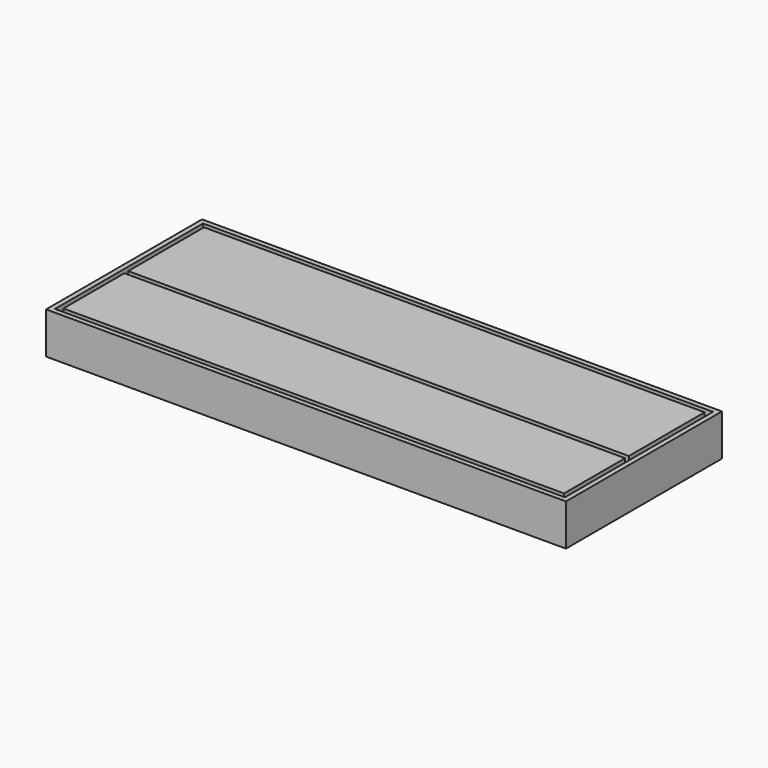
from build123d import *

# Parameters (mm, degrees)
F0_W     = 1926
F0_H     = 364.433653
F0_H_2   = 293.566347
F1_DEPTH = 160
F2_DEPTH = 160


with BuildPart() as f1:
    # F0 (on Top) → F1 (new body)
    with BuildSketch(Plane.XY):
        with Locations((-9.363413, -27.581636)):
            Rectangle(F0_W, F0_H)
        with Locations((-9.363413, -374.581635)):
            Rectangle(F0_W, F0_H_2)
        Polygon((990.636587, 191.635191), (-1009.363413, 191.635191), (-990.363413, 172.635191), (-972.363413, 172.635191), (953.636587, 172.635191), (971.636587, 172.635191), align=None)
    extrude(amount=F1_DEPTH)

    # F0 (on Top) → F2 (join)
    with BuildSketch(Plane.XY):
        Polygon((-990.363413, 172.635191), (-1009.363413, 191.635191), (-1009.363413, -558.364809), (-990.363413, -539.364809), align=None)
        Polygon((990.636587, 191.635191), (-1009.363413, 191.635191), (-990.363413, 172.635191), (-972.363413, 172.635191), (953.636587, 172.635191), (971.636587, 172.635191), align=None)
        Polygon((990.636587, -558.364809), (990.636587, 191.635191), (971.636587, 172.635191), (971.636587, -539.364809), align=None)
        Polygon((-990.363413, -539.364809), (-1009.363413, -558.364809), (990.636587, -558.364809), (971.636587, -539.364809), (953.636587, -539.364809), (-972.363413, -539.364809), align=None)
    extrude(amount=F2_DEPTH)


solid = f1.part
